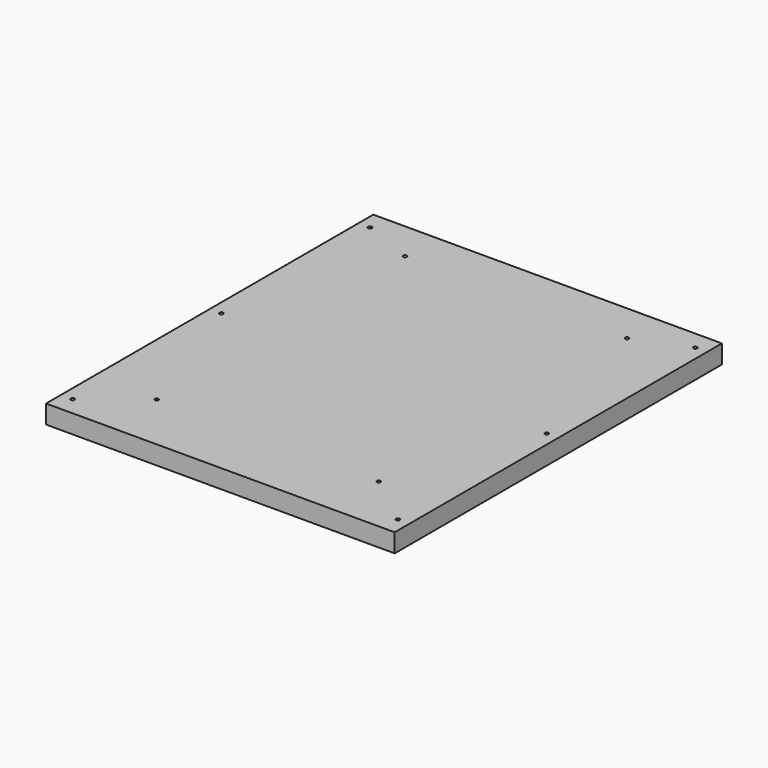
from build123d import *

# Parameters (mm, degrees)
F0_W     = 476.25
F0_H     = 558.8
F1_DEPTH = 12.7
F2_T     = -2.75336
F3_R     = 2.579688
F4_DEPTH = 25.401


with BuildPart() as f1:
    # F0 (on Top) → F1 (new body, symmetric)
    with BuildSketch(Plane.XY):
        Rectangle(F0_W, F0_H)
    extrude(amount=F1_DEPTH, both=True)

    # F2
    f2_openings = [f1.faces().sort_by_distance(p)[0] for p in [
        (0, 0, -12.7),
    ]]
    offset(amount=F2_T, openings=f2_openings)

    # F3 (on face) → F4 (cut, through all)
    with BuildSketch(Plane.XY.offset(12.7)):
        with Locations((-151.60625, 225.425)):
            Circle(F3_R)
        with Locations((151.60625, 225.425)):
            Circle(F3_R)
        with Locations((151.60625, -198.4375)):
            Circle(F3_R)
        with Locations((-151.60625, -198.4375)):
            Circle(F3_R)
        with Locations((-222.25, -254)):
            Circle(F3_R)
        with Locations((-222.25, 254)):
            Circle(F3_R)
        with Locations((222.25, -254)):
            Circle(F3_R)
        with Locations((222.25, 254)):
            Circle(F3_R)
        with Locations((-222.25, 0)):
            Circle(F3_R)
        with Locations((222.25, 0)):
            Circle(F3_R)
    extrude(amount=-F4_DEPTH, mode=Mode.SUBTRACT)


solid = f1.part
